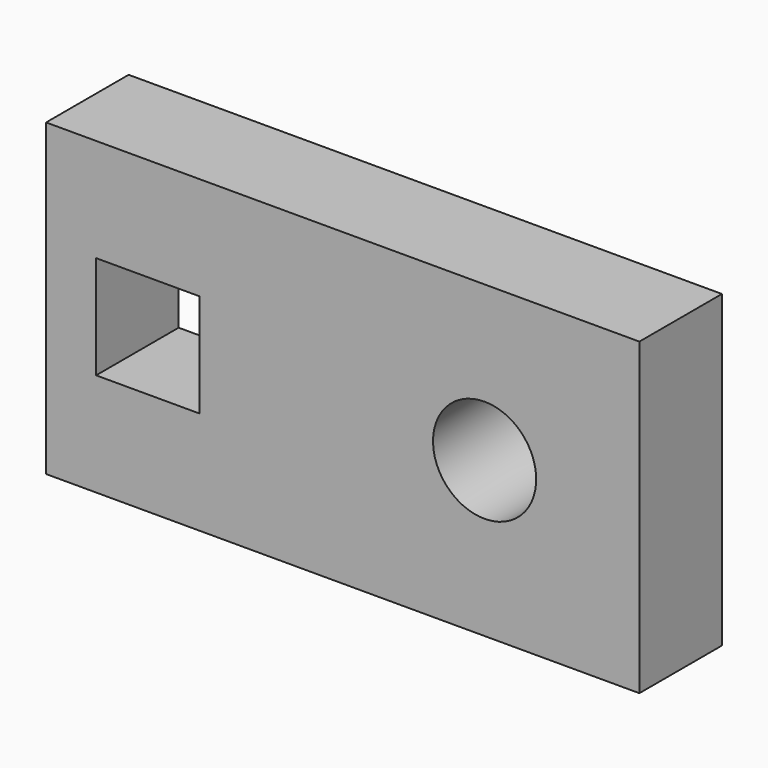
from build123d import *

# Parameters (mm, degrees)
F0_W     = 146.05
F0_H     = 76.2
F1_DEPTH = 25.4
F2_W     = 25.4
F2_H     = 25.4
F3_DEPTH = 25.4


with BuildPart() as f1:
    # F0 (on Front) → F1 (new body)
    with BuildSketch(Plane.XZ):
        with Locations((-86.200871, 65.788427)):
            Rectangle(F0_W, F0_H)
    extrude(amount=F1_DEPTH)

    # F2 (on face) → F3 (cut)
    with BuildSketch(Plane.XZ.offset(25.4)):
        with Locations((-134.209798, 65.788427)):
            Rectangle(F2_W, F2_H)
        with BuildLine():
            ThreePointArc((-38.602781, 64.962117), (-38.594096, 65.108297), (-38.587097, 65.254568))
            ThreePointArc((-38.587097, 65.254568), (-63.957646, 66.468556), (-38.602781, 64.962117))
        make_face()
    extrude(amount=-F3_DEPTH, mode=Mode.SUBTRACT)


solid = f1.part
